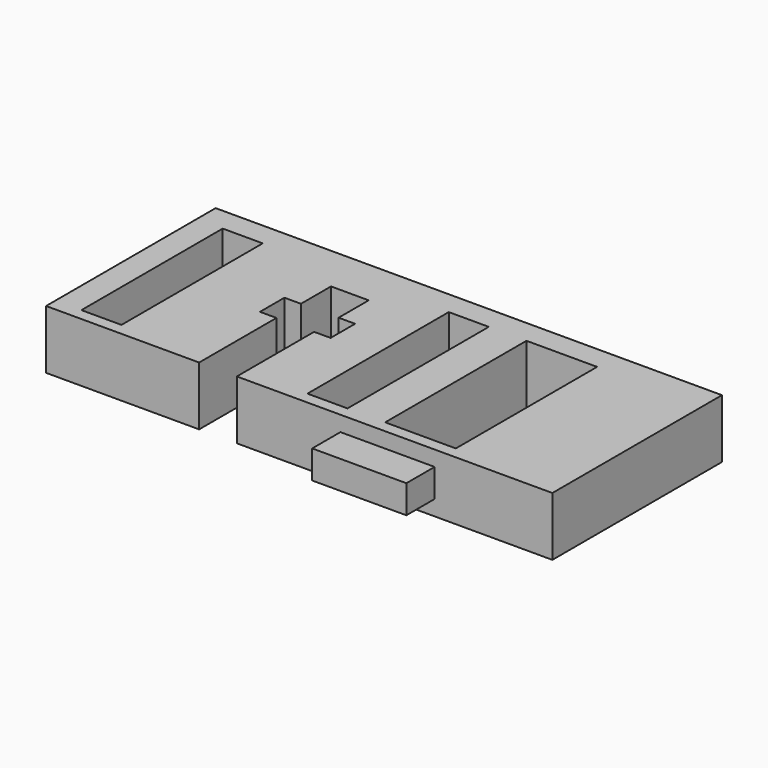
from build123d import *

# Parameters (mm, degrees)
F0_W          = 3.4
F0_H          = 15
F0_W_2        = 6
F1_DEPTH      = 2.5
F1_DEPTH_BACK = 2.5
F2_W          = 8
F2_H          = 1.2
F3_DEPTH      = 3


with BuildPart() as f1:
    # F0 (on Top) → F1 (new body, two sides)
    with BuildSketch(Plane.XY) as f1_sk:
        Polygon((43, 0), (0, 0), (0, -18), (13, -18), (13, -9.794641), (11.6, -9.794641), (11.6, -7.194641), (13, -7.194641), (13, -4), (16.2, -4), (16.2, -7.194641), (17.6, -7.194641), (17.6, -9.794641), (16.2, -9.794641), (16.2, -18), (43, -18), align=None)
        with Locations((3.9, -9.5)):
            Rectangle(F0_W, F0_H, mode=Mode.SUBTRACT)
        with Locations((23.1, -9.5)):
            Rectangle(F0_W, F0_H, mode=Mode.SUBTRACT)
        with Locations((31, -9.5)):
            Rectangle(F0_W_2, F0_H, mode=Mode.SUBTRACT)
    extrude(amount=F1_DEPTH)
    extrude(f1_sk.sketch, amount=-F1_DEPTH_BACK)

    # F2 (on face) → F3 (join)
    with BuildSketch(Plane.XZ.offset(18)):
        with Locations((29, 0.6)):
            Rectangle(F2_W, F2_H)
        with Locations((29, -0.6)):
            Rectangle(F2_W, F2_H)
    extrude(amount=F3_DEPTH)


solid = f1.part
